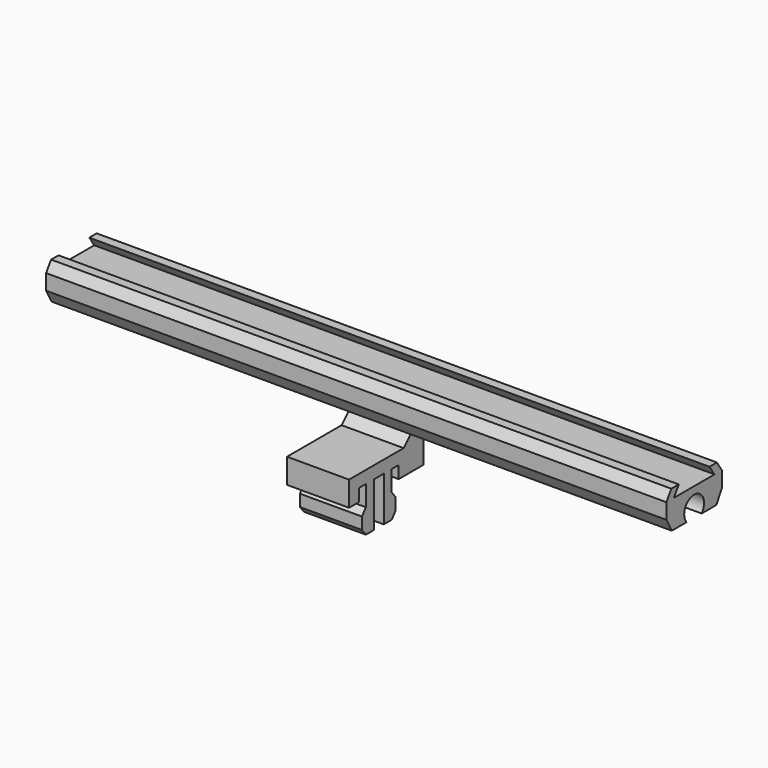
from build123d import *

# Parameters (mm, degrees)
PAD_DEPTH               = 50
PAD001_DEPTH            = 5
BODY001_ROLL_ANGLE      = -90
BODY001_PLACEMENT_ANGLE = -90


with BuildPart() as strip:
    # Sketch → Pad (new body, symmetric)
    with BuildSketch(Plane.YZ):
        with BuildLine():
            ThreePointArc((1.519868, 0), (0, 3.3), (-1.519868, 0))
            Line((-4.5, 0), (-1.519868, 0))
            Line((-5.6, 2), (-4.5, 0))
            Line((-5.6, 4.5), (-5.6, 2))
            Line((-4.588237, 6), (-5.6, 4.5))
            Line((-3.088237, 6), (-4.588237, 6))
            Line((-4.1, 4.5), (-3.088237, 6))
            Line((-4.1, 4.5), (4.1, 4.5))
            Line((4.1, 4.5), (3.088237, 6))
            Line((3.088237, 6), (4.588237, 6))
            Line((4.588237, 6), (5.6, 4.5))
            Line((5.6, 4.5), (5.6, 2))
            Line((5.6, 2), (4.5, 0))
            Line((4.5, 0), (1.519868, 0))
        make_face()
    extrude(amount=PAD_DEPTH, both=True)


with BuildPart() as clip:
    # Sketch001 → Pad001 (new body, symmetric)
    with BuildSketch(Plane.XY):
        with BuildLine():
            Line((-9, 0), (-9, -8.099389))
            ThreePointArc((-9, -8.099389), (-6.291066, -10.879816), (-7.383063, -7.154679))
            Line((-7.383063, -7.154679), (-7, -6.102224))
            Line((-7, -6.102224), (-7, -6.002224))
            Line((-7, -6.002224), (-5, -4))
            Line((-5, -4), (6, -4))
            Line((6, -4), (6, 0))
            Line((6, 0), (4, 0))
            Line((4, 0), (4, -2))
            Line((4, -2), (2.6, -2))
            Line((2.6, -2), (2.6, 1.3))
            Line((2.6, 1.3), (3.4, 2.2992))
            Line((3.4, 2.2992), (3.4, 4.1992))
            Line((3.4, 4.1992), (2.6, 5.2))
            Line((2.6, 5.2), (1, 5.2))
            Line((1, 5.2), (1, -2))
            Line((1, -2), (-1, -2))
            Line((-1, -2), (-1, 5.2))
            Line((-1, 5.2), (-2.6, 5.2))
            Line((-2.6, 5.2), (-3.4, 4.1992))
            Line((-3.4, 4.1992), (-3.4, 2.2992))
            Line((-3.4, 2.2992), (-2.6, 1.3))
            Line((-2.6, 1.3), (-2.6, -2))
            Line((-2.6, -2), (-4, -2))
            Line((-4, -2), (-4, 0))
            Line((-4, 0), (-9, 0))
        make_face()
    extrude(amount=PAD001_DEPTH, both=True)


with BuildPart() as clip_1:
    # Body001 roll: moved
    add(clip.part.rotate(Axis((0, 0, 0), (1, 0, 0)), BODY001_ROLL_ANGLE))


with BuildPart() as clip_2:
    # Body001 placement: moved
    add(clip_1.part.moved(Location((0, -7.3, -7.8))).rotate(Axis((0, -7.3, -7.8), (0, 0, 1)), BODY001_PLACEMENT_ANGLE))


solid = Compound([strip.part, clip_2.part])
